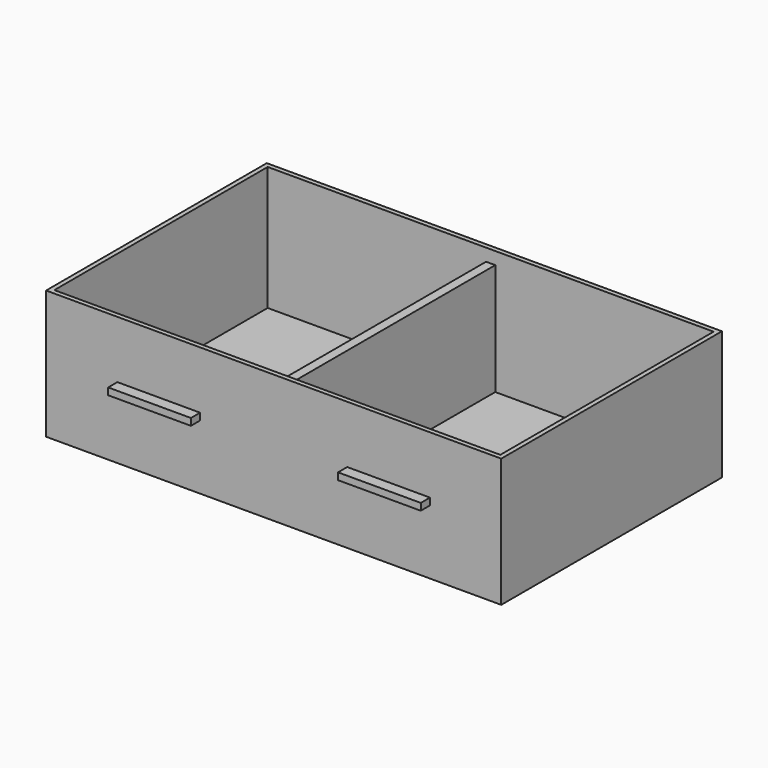
from build123d import *

# Parameters (mm, degrees)
F0_W     = 990
F0_H     = 280
F1_DEPTH = 600
F2_T     = -10
F3_W     = 20
F3_H     = 580
F4_DEPTH = 243
F5_W     = 180
F5_H     = 15
F6_DEPTH = 25


with BuildPart() as f1:
    # F0 (on Front) → F1 (new body)
    with BuildSketch(Plane.XZ):
        Rectangle(F0_W, F0_H)
    extrude(amount=F1_DEPTH)

    # F2
    f2_openings = [f1.faces().sort_by_distance(p)[0] for p in [
        (0, -300, 140),
    ]]
    offset(amount=F2_T, openings=f2_openings)

    # F3 (on face) → F4 (join)
    with BuildSketch(Plane.XY.offset(-130)):
        with Locations((0, -300)):
            Rectangle(F3_W, F3_H)
    extrude(amount=F4_DEPTH)

    # F5 (on face) → F6 (join)
    with BuildSketch(Plane.XZ.offset(600)):
        with Locations((250, 7.5)):
            Rectangle(F5_W, F5_H)
        with Locations((-250, 7.5)):
            Rectangle(F5_W, F5_H)
    extrude(amount=F6_DEPTH)


solid = f1.part
